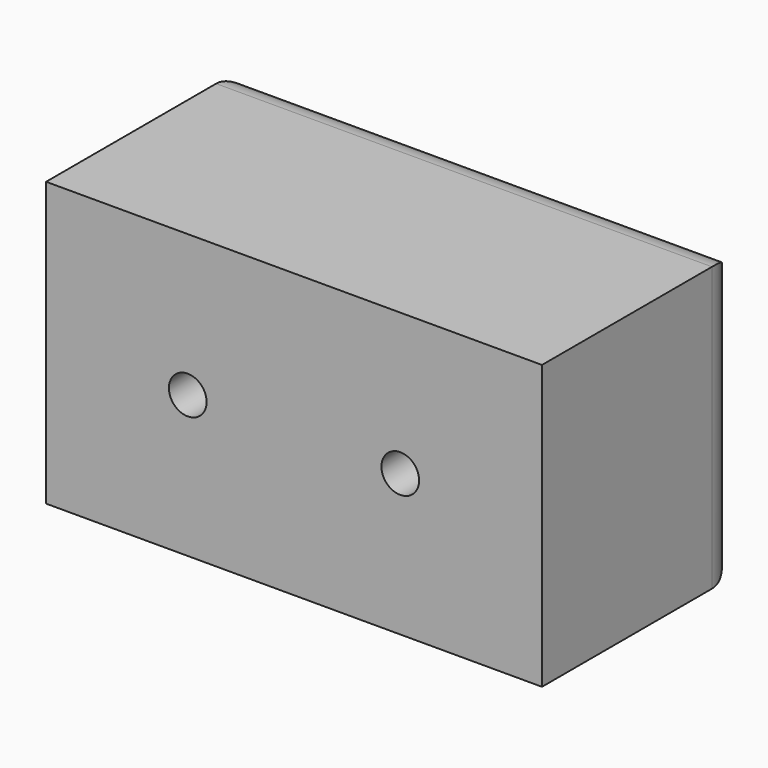
from build123d import *

# Parameters (mm, degrees)
F0_W     = 88.9
F0_H     = 44.45
F1_DEPTH = 50.8
F3_D     = 6.7564
F4_R     = 6.35


with BuildPart() as f1:
    # F0 (on Top) → F1 (new body)
    with BuildSketch(Plane.XY):
        Rectangle(F0_W, F0_H)
    extrude(amount=F1_DEPTH)

    # F3 (through all)
    with Locations(Plane(origin=(0, 22.225, 0), x_dir=(-1, 0, 0), z_dir=(0, 1, 0))):
        with Locations((-19.05, 25.4), (19.05, 25.4)):
            Hole(F3_D / 2)

    # F4
    f4_edges = [f1.edges().sort_by_distance(p)[0] for p in [
        (0, 22.225, 50.8),
        (-44.45, 22.225, 25.4),
        (0, 22.225, 0),
        (44.45, 22.225, 25.4),
    ]]
    fillet(f4_edges, radius=F4_R)


solid = f1.part
